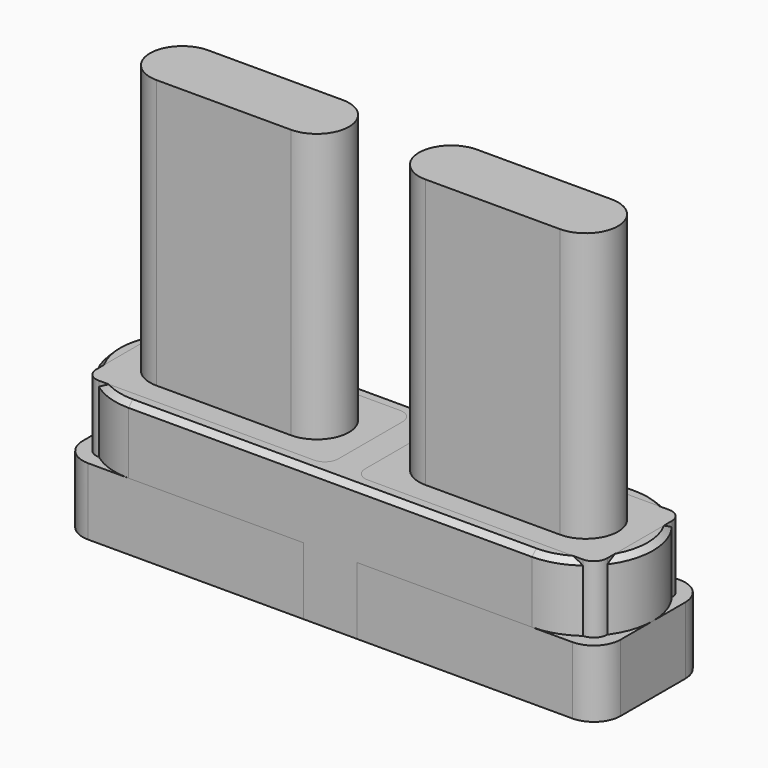
from build123d import *

# Parameters (mm, degrees)
F1_DEPTH = 50
F2_SIZE  = 2
F4_DEPTH = 150
F6_DEPTH = 25
F7_DEPTH = 50


with BuildPart() as f1:
    # F0 (on Top) → F1 (new body)
    with BuildSketch(Plane.XY):
        with BuildLine():
            Line((75, 12.5), (75, 0))
            ThreePointArc((75, 0), (100, 25), (75, 50))
            Line((75, 50), (75, 37.5))
            ThreePointArc((75, 37.5), (87.5, 25), (75, 12.5))
        make_face()
        with BuildLine():
            Line((-75, 0), (75, 0))
            Line((75, 0), (75, 12.5))
            Line((75, 12.5), (25, 12.5))
            ThreePointArc((25, 12.5), (12.5, 25), (25, 37.5))
            Line((25, 37.5), (75, 37.5))
            Line((75, 37.5), (75, 50))
            Line((75, 50), (-75, 50))
            Line((-75, 50), (-75, 37.5))
            Line((-75, 37.5), (-25, 37.5))
            ThreePointArc((-25, 37.5), (-12.5, 25), (-25, 12.5))
            Line((-25, 12.5), (-75, 12.5))
            Line((-75, 12.5), (-75, 0))
        make_face()
        with BuildLine():
            ThreePointArc((-75, 50), (-100, 25), (-75, 0))
            Line((-75, 0), (-75, 12.5))
            ThreePointArc((-75, 12.5), (-87.5, 25), (-75, 37.5))
            Line((-75, 37.5), (-75, 50))
        make_face()
    extrude(amount=F1_DEPTH)

    # F2
    f2_edges = [f1.edges().sort_by_distance(p)[0] for p in [
        (0, 0, 50),
        (12.5, 25, 50),
        (-50, 12.5, 50),
    ]]
    chamfer(f2_edges, length=F2_SIZE)


with BuildPart() as f4:
    # F3 (on Top) → F4 (new body)
    with BuildSketch(Plane.XY):
        with BuildLine():
            ThreePointArc((-25, 13), (-13, 25), (-25, 37))
            Line((-25, 37), (-75, 37))
            ThreePointArc((-75, 37), (-87, 25), (-75, 13))
            Line((-75, 13), (-25, 13))
        make_face()
        with BuildLine():
            ThreePointArc((25, 37), (13, 25), (25, 13))
            Line((25, 13), (75, 13))
            ThreePointArc((75, 13), (87, 25), (75, 37))
            Line((75, 37), (25, 37))
        make_face()
    extrude(amount=F4_DEPTH)


with BuildPart() as f6:
    # F5 (on Top) → F6 (new body)
    with BuildSketch(Plane.XY):
        with BuildLine():
            ThreePointArc((0, 10), (2.928932, 2.928932), (10, 0))
            Line((10, 0), (90, 0))
            ThreePointArc((90, 0), (97.071068, 2.928932), (100, 10))
            Line((100, 10), (100, 40))
            ThreePointArc((100, 40), (97.071068, 47.071068), (90, 50))
            Line((90, 50), (10, 50))
            ThreePointArc((10, 50), (2.928932, 47.071068), (0, 40))
            Line((0, 40), (0, 10))
        make_face()
        with BuildLine():
            ThreePointArc((90, 45), (93.535534, 43.535534), (95, 40))
            Line((95, 40), (95, 10))
            ThreePointArc((95, 10), (93.535534, 6.464466), (90, 5))
            Line((90, 5), (10, 5))
            ThreePointArc((10, 5), (6.464466, 6.464466), (5, 10))
            Line((5, 10), (5, 40))
            ThreePointArc((5, 40), (6.464466, 43.535534), (10, 45))
            Line((10, 45), (90, 45))
        make_face(mode=Mode.SUBTRACT)
        with BuildLine():
            ThreePointArc((-10, 0), (-2.928932, 2.928932), (0, 10))
            Line((0, 10), (0, 40))
            ThreePointArc((0, 40), (-2.928932, 47.071068), (-10, 50))
            Line((-10, 50), (-90, 50))
            ThreePointArc((-90, 50), (-97.071068, 47.071068), (-100, 40))
            Line((-100, 40), (-100, 10))
            ThreePointArc((-100, 10), (-97.071068, 2.928932), (-90, 0))
            Line((-90, 0), (-10, 0))
        make_face()
        with BuildLine():
            Line((-95, 10), (-95, 40))
            ThreePointArc((-95, 40), (-93.535534, 43.535534), (-90, 45))
            Line((-90, 45), (-10, 45))
            ThreePointArc((-10, 45), (-6.464466, 43.535534), (-5, 40))
            Line((-5, 40), (-5, 10))
            ThreePointArc((-5, 10), (-6.464466, 6.464466), (-10, 5))
            Line((-10, 5), (-90, 5))
            ThreePointArc((-90, 5), (-93.535534, 6.464466), (-95, 10))
        make_face(mode=Mode.SUBTRACT)
    extrude(amount=F6_DEPTH)


with BuildPart() as f7:
    # F5 (on Top) → F7 (new body)
    with BuildSketch(Plane.XY):
        with BuildLine():
            Line((95, 10), (95, 40))
            ThreePointArc((95, 40), (93.535534, 43.535534), (90, 45))
            Line((90, 45), (10, 45))
            ThreePointArc((10, 45), (6.464466, 43.535534), (5, 40))
            Line((5, 40), (5, 10))
            ThreePointArc((5, 10), (6.464466, 6.464466), (10, 5))
            Line((10, 5), (90, 5))
            ThreePointArc((90, 5), (93.535534, 6.464466), (95, 10))
        make_face()
        with BuildLine():
            ThreePointArc((-90, 45), (-93.535534, 43.535534), (-95, 40))
            Line((-95, 40), (-95, 10))
            ThreePointArc((-95, 10), (-93.535534, 6.464466), (-90, 5))
            Line((-90, 5), (-10, 5))
            ThreePointArc((-10, 5), (-6.464466, 6.464466), (-5, 10))
            Line((-5, 10), (-5, 40))
            ThreePointArc((-5, 40), (-6.464466, 43.535534), (-10, 45))
            Line((-10, 45), (-90, 45))
        make_face()
    extrude(amount=F7_DEPTH)


solid = Compound([f1.part, f4.part, f6.part, f7.part])
